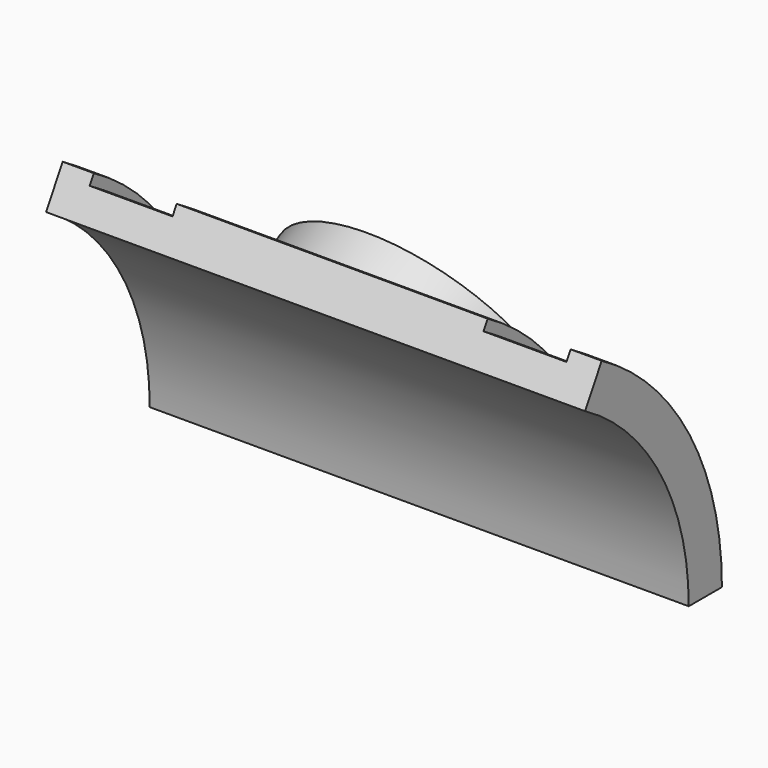
from build123d import *

# Parameters (mm, degrees)
REVOLUTION_ANGLE = 60
SKETCH001_R      = 13
PAD_DEPTH        = 4


with BuildPart() as part:
    # Sketch → Revolution (revolve)
    with BuildSketch(Plane.XY):
        Polygon((-26, 25), (26, 25), (26, 29), (23, 29), (23, 28), (15, 28), (15, 29), (-15, 29), (-15, 28), (-23, 28), (-23, 29), (-26, 29), align=None)
    revolve(axis=Axis((0, 0, 0), (1, 0, 0)), revolution_arc=REVOLUTION_ANGLE)

    # Sketch001 (on DatumPlane) → Pad (new body)
    with BuildSketch(Plane(origin=(0.333333, 24.166667, 8.371579), x_dir=(1, 0, 0), z_dir=(0, -0.866025, -0.5))):
        with Locations((-0.333333, 4.833333)):
            Circle(SKETCH001_R)
    extrude(amount=-PAD_DEPTH)


solid = part.part
